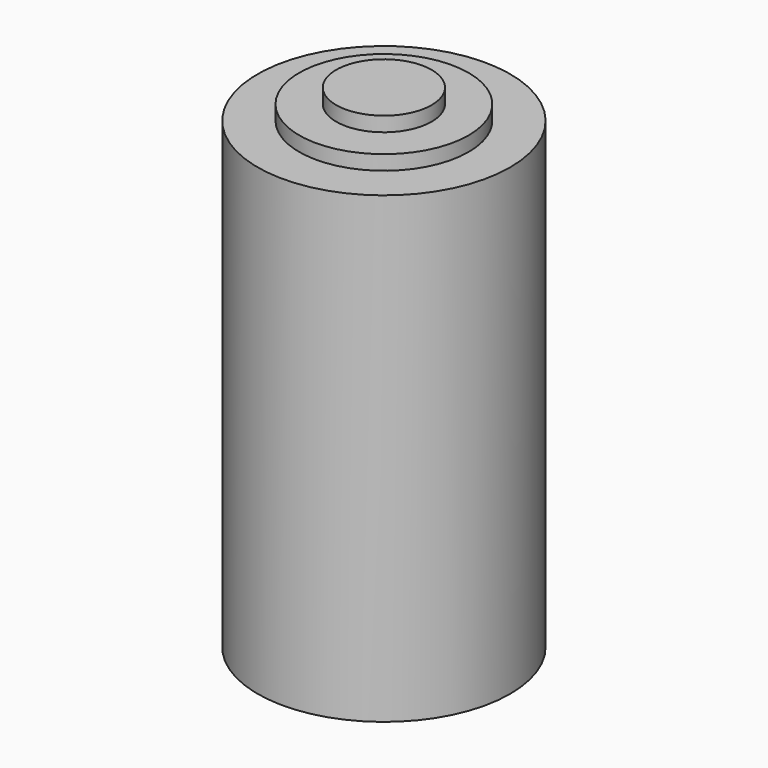
from build123d import *

# Parameters (mm, degrees)
F0_W   = 5.2163470536
F0_H   = 1.59855932
F0_W_2 = 4.0384605527


with BuildPart() as f1:
    # F0 (on Front) → F1 (revolve)
    with BuildSketch(Plane.XZ):
        with Locations((2.6081735268, 53.0468784273)):
            Rectangle(F0_W, F0_H)
        Polygon((0, 50.6490394473), (0, 0), (13.7980775908, 0), (13.7980775908, 50.6490394473), (9.2548076063, 50.6490394473), (5.2163470536, 50.6490394473), align=None)
        with Locations((7.23557733, 51.4483191073)):
            Rectangle(F0_W_2, F0_H)
        with Locations((2.6081735268, 51.4483191073)):
            Rectangle(F0_W, F0_H)
    revolve(axis=Axis((0, 0, 25.3245197237), (0, 0, 1)))


solid = f1.part
